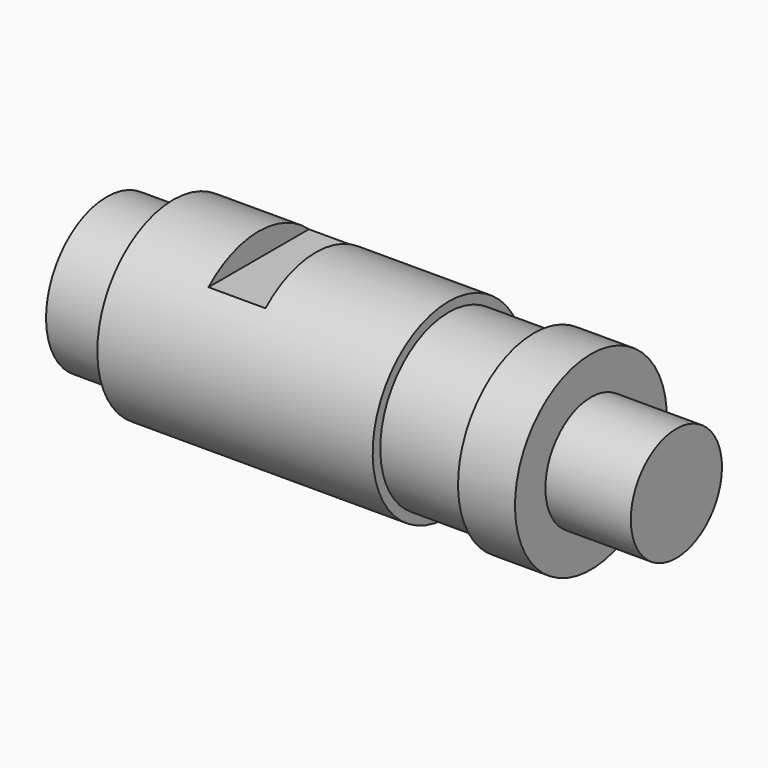
from build123d import *

# Parameters (mm, degrees)
F0_W     = 11.1125
F0_H     = 12.7
F0_W_2   = 14.2875
F0_H_2   = 14.2875
F0_H_3   = 9.525
F2_W     = 9.5377
F2_H     = 23.704022
F3_DEPTH = 63.5


with BuildPart() as f1:
    # F0 (on Front) → F1 (revolve)
    with BuildSketch(Plane.XZ):
        with Locations((-42.06875, 6.35)):
            Rectangle(F0_W, F0_H)
        Polygon((-36.5125, 12.7), (-36.5125, 0), (9.5377, 0), (9.5377, 14.2875), (9.5377, 15.875), (-36.5125, 15.875), align=None)
        with Locations((16.68145, 7.14375)):
            Rectangle(F0_W_2, F0_H_2)
        Polygon((23.8252, 14.2875), (23.8252, 0), (33.3375, 0), (33.3375, 9.525), (33.3375, 15.875), (23.8125, 15.875), align=None)
        with Locations((40.48125, 4.7625)):
            Rectangle(F0_W_2, F0_H_3)
    revolve(axis=Axis((0, 0, 0), (1, 0, 0)))

    # F2 (on Front) → F3 (cut, symmetric)
    with BuildSketch(Plane.XZ):
        with Locations((-17.45615, 23.758261)):
            Rectangle(F2_W, F2_H)
    extrude(amount=F3_DEPTH, both=True, mode=Mode.SUBTRACT)


solid = f1.part
